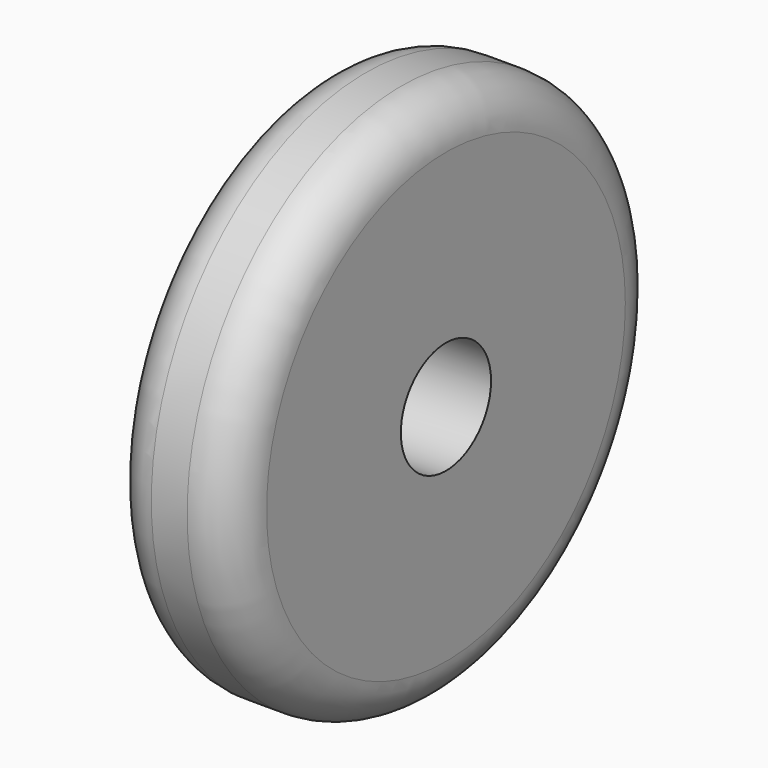
from build123d import *

# Parameters (mm, degrees)
F0_R     = 41.093721
F1_DEPTH = 19
F2_R     = 6.759798
F3_R     = 8.635664
F4_DEPTH = 34.1


with BuildPart() as f1:
    # F0 (on Right) → F1 (new body)
    with BuildSketch(Plane.YZ):
        Circle(F0_R)
    extrude(amount=F1_DEPTH)

    # F2
    f2_edges = [f1.edges().sort_by_distance(p)[0] for p in [
        (19, -41.093721, 0),
        (0, -41.093721, 0),
    ]]
    fillet(f2_edges, radius=F2_R)

    # F3 (on Right) → F4 (cut, symmetric)
    with BuildSketch(Plane.YZ):
        Circle(F3_R)
    extrude(amount=F4_DEPTH, both=True, mode=Mode.SUBTRACT)


solid = f1.part
